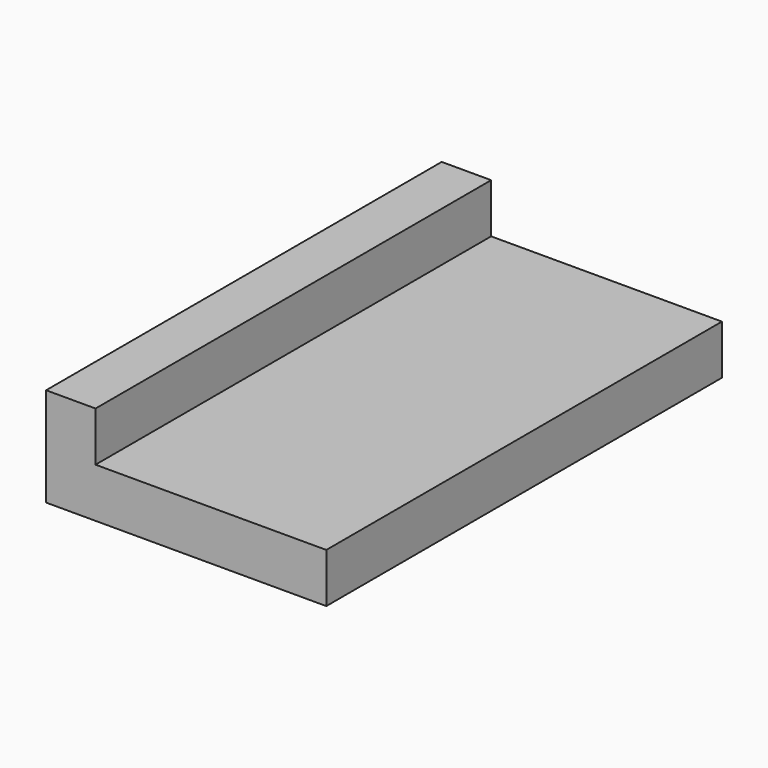
from build123d import *

# Parameters (mm, degrees)
SKETCH_W     = 17
SKETCH_H     = 30
PAD_DEPTH    = 6
SKETCH001_W  = 14
SKETCH001_H  = 30
POCKET_DEPTH = 3


with BuildPart() as part:
    # Sketch → Pad (new body)
    with BuildSketch(Plane.XY):
        with Locations((8.5, 15)):
            Rectangle(SKETCH_W, SKETCH_H)
    extrude(amount=PAD_DEPTH)

    # Sketch001 (on Face6 of Pad) → Pocket (cut)
    with BuildSketch(Plane.XY.offset(6)):
        with Locations((10, 15)):
            Rectangle(SKETCH001_W, SKETCH001_H)
    extrude(amount=-POCKET_DEPTH, mode=Mode.SUBTRACT)


solid = part.part
